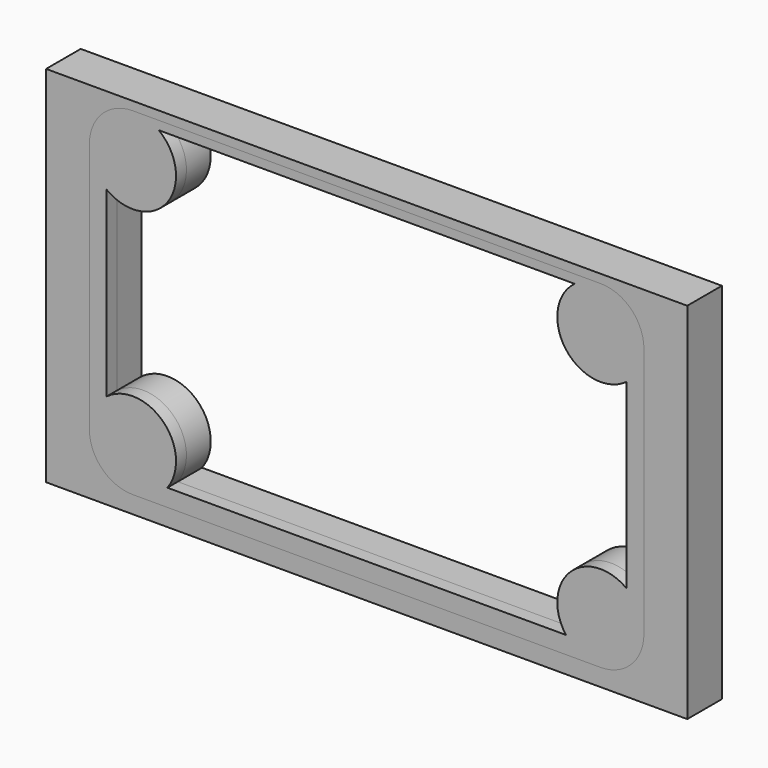
from build123d import *

# Parameters (mm, degrees)
F0_W     = 74
F0_H     = 42
F0_W_2   = 64
F0_H_2   = 39
F1_DEPTH = 5
F2_DEPTH = 3.5
F3_R     = 5
F4_DEPTH = 1.5


with BuildPart() as f1:
    # F0 (on Front) → F1 (new body)
    with BuildSketch(Plane.XZ):
        with Locations((0, -0.5)):
            Rectangle(F0_W, F0_H)
        Rectangle(F0_W_2, F0_H_2, mode=Mode.SUBTRACT)
    extrude(amount=F1_DEPTH)

    # F0 (on Front) → F2 (join)
    with BuildSketch(Plane.XZ):
        Rectangle(F0_W_2, F0_H_2)
        with BuildLine():
            Line((-30, -10.5), (-30, 10.5))
            ThreePointArc((-30, 10.5), (-23, 11.5), (-24, 18.5))
            Line((-24, 18.5), (24, 18.5))
            ThreePointArc((24, 18.5), (23, 11.5), (30, 10.5))
            Line((30, 10.5), (30, -10.5))
            ThreePointArc((30, -10.5), (23.464466, -10.964466), (23, -17.5))
            Line((23, -17.5), (-23, -17.5))
            ThreePointArc((-23, -17.5), (-23.464466, -10.964466), (-30, -10.5))
        make_face(mode=Mode.SUBTRACT)
    extrude(amount=F2_DEPTH)

    # F3
    f3_edges = [f1.edges().sort_by_distance(p)[0] for p in [
        (-32, -4.25, 19.5),
        (-32, -4.25, -19.5),
        (32, -4.25, -19.5),
        (32, -4.25, 19.5),
    ]]
    fillet(f3_edges, radius=F3_R)


with BuildPart() as f4:
    # F2_face (on face) → F4 (new body)
    with BuildSketch(Plane(origin=(0, -3.5, -1.52285), x_dir=(1, 0, 0), z_dir=(0, -1, 0))):
        with BuildLine():
            Line((27, 21.02285), (-27, 21.02285))
            ThreePointArc((-27, 21.02285), (-30.535534, 19.558384), (-32, 16.02285))
            Line((-32, 16.02285), (-32, -12.97715))
            ThreePointArc((-32, -12.97715), (-30.535534, -16.512684), (-27, -17.97715))
            Line((-27, -17.97715), (27, -17.97715))
            ThreePointArc((27, -17.97715), (30.535534, -16.512684), (32, -12.97715))
            Line((32, -12.97715), (32, 16.02285))
            ThreePointArc((32, 16.02285), (30.535534, 19.558384), (27, 21.02285))
        make_face()
        with BuildLine():
            Line((-30, -8.97715), (-30, 12.02285))
            ThreePointArc((-30, 12.02285), (-23, 13.02285), (-24, 20.02285))
            Line((-24, 20.02285), (24, 20.02285))
            ThreePointArc((24, 20.02285), (23, 13.02285), (30, 12.02285))
            Line((30, 12.02285), (30, -8.97715))
            ThreePointArc((30, -8.97715), (23.464466, -9.441616), (23, -15.97715))
            Line((23, -15.97715), (-23, -15.97715))
            ThreePointArc((-23, -15.97715), (-23.464466, -9.441616), (-30, -8.97715))
        make_face(mode=Mode.SUBTRACT)
    extrude(amount=F4_DEPTH)


solid = Compound([f1.part, f4.part])
